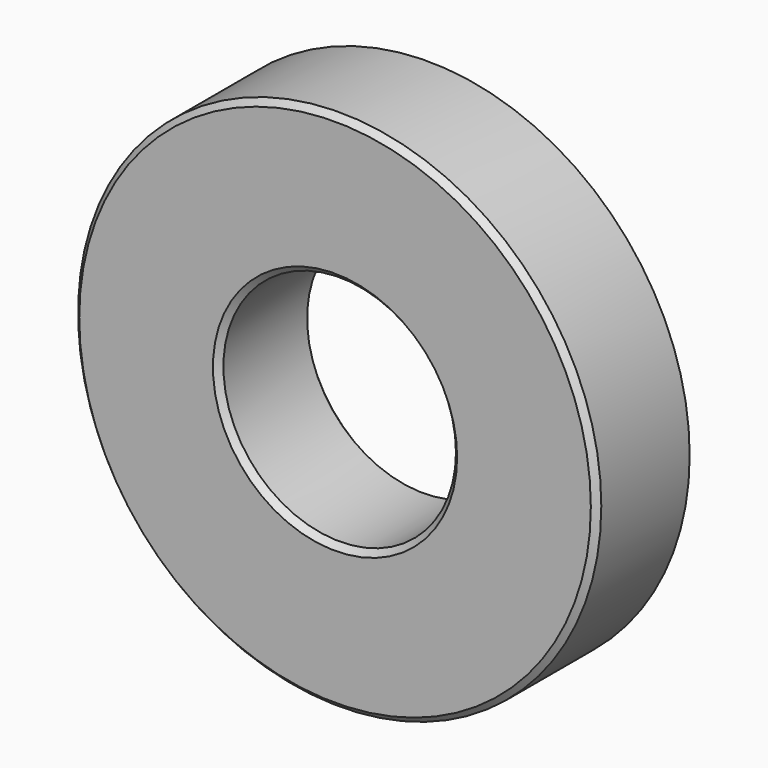
from build123d import *

# Parameters (mm, degrees)
F0_R     = 4.5
F1_DEPTH = 2
F2_R     = 2
F3_DEPTH = 2.001
F4_SIZE  = 0.1


with BuildPart() as f1:
    # F0 (on Front) → F1 (new body)
    with BuildSketch(Plane.XZ):
        Circle(F0_R)
    extrude(amount=-F1_DEPTH)

    # F2 (on face) → F3 (cut, through all)
    with BuildSketch(Plane.XZ):
        Circle(F2_R)
    extrude(amount=-F3_DEPTH, mode=Mode.SUBTRACT)

    # F4
    f4_edges = [f1.edges().sort_by_distance(p)[0] for p in [
        (-2, 0, 0),
        (-4.5, 0, 0),
        (-2, 2, 0),
    ]]
    chamfer(f4_edges, length=F4_SIZE)


solid = f1.part
